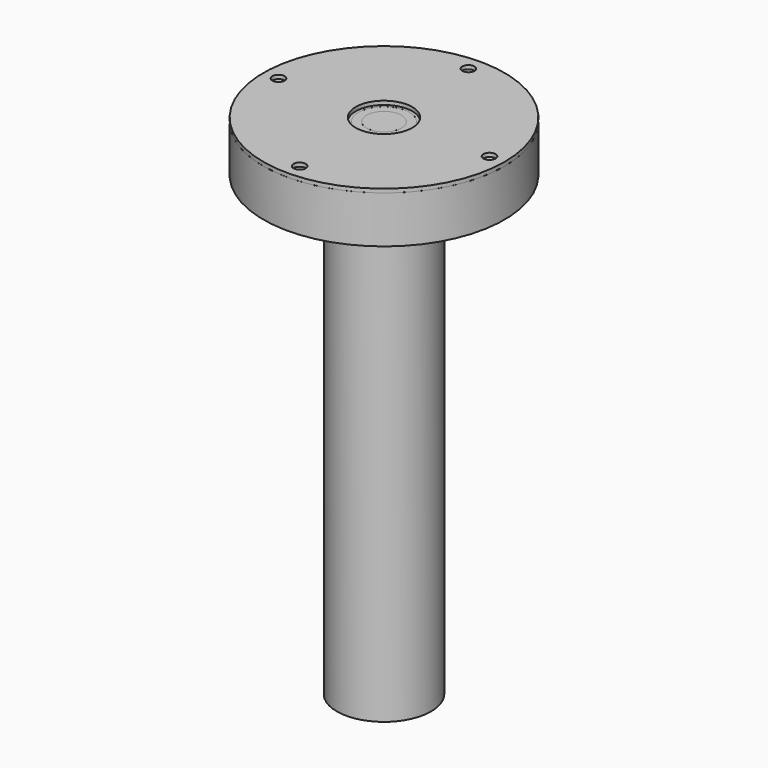
from build123d import *

# Parameters (mm, degrees)
F4_W            = 40
F4_H            = 40
F4_R            = 2.5
F4_R_2          = 13.5
F4_R_3          = 9.25
F5_DEPTH        = 3
F6_DEPTH        = 0.01
F7_R            = 64
F7_R_2          = 3.25
F7_R_3          = 15
F8_DEPTH        = 2
F12_D           = 3.3
F13_D           = 6.55
F13_START       = 3
F13_CBORE_D     = 11
F13_CBORE_DEPTH = 7
F14_D           = 5
F14_DEPTH       = 25
F14_START       = 17.5
F14_TIP         = 1.5021515476


with BuildPart() as f2:
    # F1 (on Front) → F2 (revolve)
    with BuildSketch(Plane.XZ):
        Polygon((-25, -17.5), (-25, -267.5), (0, -267.5), (0, -12.5), (-15, -12.5), (-15, -17.5), align=None)
    revolve(axis=Axis((0, 0, -140), (0, 0, 1)))

    # F14
    # its depths count from where the whole tool has entered the part; down to there all is cleared
    with Locations(Plane.XY.offset(-F14_START)):
        with Locations((14.8492424049, -14.8492424049), (-14.8492424049, 14.8492424049)):
            Hole(F14_D / 2, depth=F14_DEPTH)
            with Locations((0, 0, -(F14_DEPTH + F14_TIP / 2))):  # 118° drill point
                Cone(0, F14_D / 2, F14_TIP, mode=Mode.SUBTRACT)


with BuildPart() as f3:
    # F0 (on Front) → F3 (revolve)
    with BuildSketch(Plane.XZ):
        Polygon((-48, 0), (-64, 0), (-64, -25), (-48, -25), (-48, -17.5), (-15, -17.5), (-15, -7.5), (-48, -7.5), align=None)
    revolve(axis=Axis((0, 0, -140), (0, 0, 1)))


with BuildPart() as f5:
    # F4 (on Top) → F5 (new body)
    with BuildSketch(Plane.XY):
        Rectangle(F4_W, F4_H)
        with Locations((-12.5, -12.5)):
            Circle(F4_R, mode=Mode.SUBTRACT)
        with Locations((12.5, -12.5)):
            Circle(F4_R, mode=Mode.SUBTRACT)
        with Locations((-12.5, 12.5)):
            Circle(F4_R, mode=Mode.SUBTRACT)
        Circle(F4_R_2, mode=Mode.SUBTRACT)
        with Locations((12.5, 12.5)):
            Circle(F4_R, mode=Mode.SUBTRACT)
        Circle(F4_R_2)
        Circle(F4_R_3, mode=Mode.SUBTRACT)
        Circle(F4_R_3)
    extrude(amount=-F5_DEPTH)

    # F4 (on Top) → F6 (cut)
    with BuildSketch(Plane.XY):
        Circle(F4_R_2)
        Circle(F4_R_3, mode=Mode.SUBTRACT)
    extrude(amount=-F6_DEPTH, mode=Mode.SUBTRACT)


with BuildPart() as f8:
    # F7 (on Top) → F8 (new body)
    with BuildSketch(Plane.XY):
        Circle(F7_R)
        with Locations((0, -56)):
            Circle(F7_R_2, mode=Mode.SUBTRACT)
        with Locations((-56, 0)):
            Circle(F7_R_2, mode=Mode.SUBTRACT)
        Circle(F7_R_3, mode=Mode.SUBTRACT)
        with Locations((56, 0)):
            Circle(F7_R_2, mode=Mode.SUBTRACT)
        with Locations((0, 56)):
            Circle(F7_R_2, mode=Mode.SUBTRACT)
    extrude(amount=F8_DEPTH)


with BuildPart() as f11:
    # F10 (on Front) → F11 (revolve)
    with BuildSketch(Plane.XZ):
        Polygon((0, -3), (-30, -3), (-30, -17.5), (-15, -17.5), (-15, -9.5), (0, -9.5), align=None)
    revolve(axis=Axis((0, 0, -6.25), (0, 0, -1)))

    # F12 (through all)
    with Locations(Plane.XY):
        with Locations((-12.5, -12.5), (12.5, 12.5)):
            Hole(F12_D / 2)

    # F13 (through all)
    # its depths count from where the whole tool has entered the part; down to there all is cleared
    with Locations(Plane.XY.offset(-F13_START)):
        with Locations((-14.8492424049, 14.8492424049), (14.8492424049, -14.8492424049)):
            CounterBoreHole(F13_D / 2, F13_CBORE_D / 2, F13_CBORE_DEPTH)


solid = Compound([f2.part, f3.part, f5.part, f8.part, f11.part])
